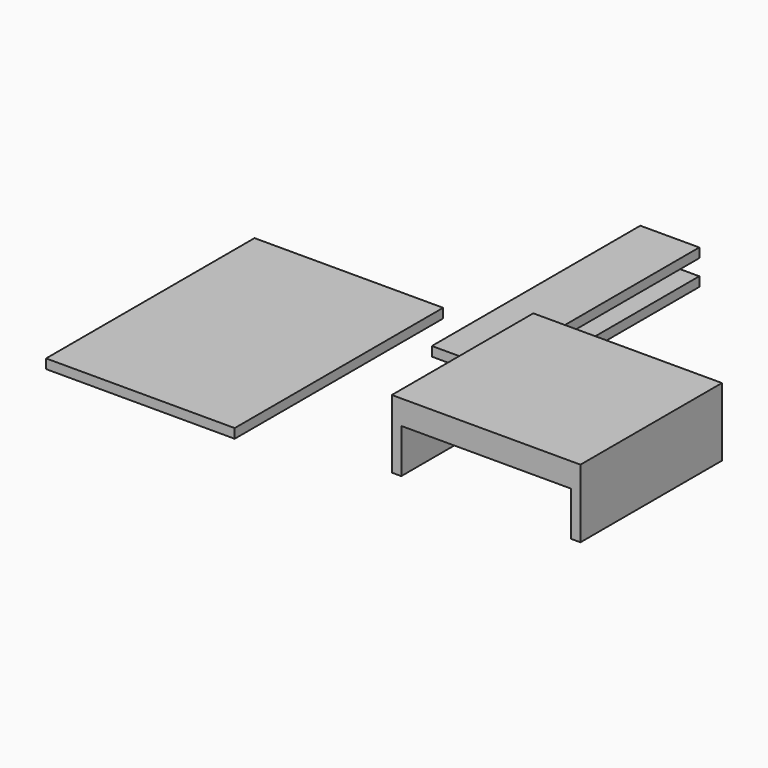
from build123d import *

# Parameters (mm, degrees)
F1_W      = 320
F1_H      = 16
F2_DEPTH  = 300
F3_W      = 16
F3_H      = 100
F4_DEPTH  = 300
F5_W      = 16
F5_H      = 300
F6_DEPTH  = 100
F7_W      = 288
F7_H      = 16
F8_DEPTH  = 25
F9_W      = 320
F9_H      = 16
F10_DEPTH = 442
F11_W     = 100
F11_H     = 16
F12_DEPTH = 442


with BuildPart() as f2:
    # F1 (on Front) → F2 (new body)
    with BuildSketch(Plane.XZ):
        with Locations((160, 8)):
            Rectangle(F1_W, F1_H)
    extrude(amount=F2_DEPTH)

    # F3 (on Front) → F4 (join)
    with BuildSketch(Plane.XZ):
        with Locations((8, -50)):
            Rectangle(F3_W, F3_H)
    extrude(amount=F4_DEPTH)

    # F5 (on face) → F6 (join)
    with BuildSketch(Plane(origin=(0, 0, 0), x_dir=(1, 0, 0), z_dir=(0, 0, -1))):
        with Locations((312, 150)):
            Rectangle(F5_W, F5_H)
    extrude(amount=F6_DEPTH)

    # F7 (on face) → F8 (join)
    with BuildSketch(Plane(origin=(0, 0, 0), x_dir=(1, 0, 0), z_dir=(0, 0, -1))):
        with Locations((160, 292)):
            Rectangle(F7_W, F7_H)
    extrude(amount=F8_DEPTH)


with BuildPart() as f10:
    # F9 (on Front) → F10 (new body)
    with BuildSketch(Plane.XZ):
        with Locations((-312.9425525665, -33.4516875446)):
            Rectangle(F9_W, F9_H)
    extrude(amount=F10_DEPTH)


with BuildPart() as f12:
    # F11 (on face) → F12 (new body)
    with BuildSketch(Plane(origin=(0, 0, 0), x_dir=(-1, 0, 0), z_dir=(0, 1, 0))):
        with Locations((122.0396572351, -139.7158758086)):
            Rectangle(F11_W, F11_H)
    extrude(amount=F12_DEPTH)


with BuildPart() as f13_1:
    # F13: copy of F12
    add(f12.part.moved(Location((0, 0, 43))))


solid = Compound([f2.part, f10.part, f12.part, f13_1.part])
